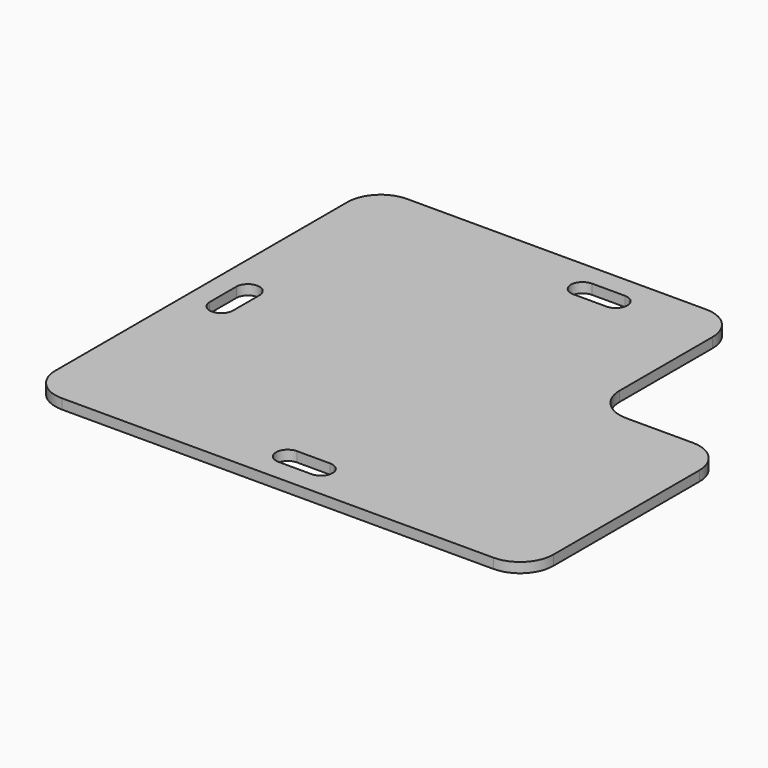
from build123d import *

# Parameters (mm, degrees)
F1_DEPTH = 3


with BuildPart() as f1:
    # F0 (on Top) → F1 (new body)
    with BuildSketch(Plane.XY):
        with BuildLine():
            Line((-55.810351, -65), (74.189649, -65))
            ThreePointArc((74.189649, -65), (81.260717, -62.071068), (84.189649, -55))
            Line((84.189649, -55), (84.189649, 0))
            ThreePointArc((84.189649, 0), (81.260717, 7.071068), (74.189649, 10))
            Line((74.189649, 10), (54.189649, 10))
            ThreePointArc((54.189649, 10), (47.118581, 12.928932), (44.189649, 20))
            Line((44.189649, 20), (44.189649, 55))
            ThreePointArc((44.189649, 55), (41.260717, 62.071068), (34.189649, 65))
            Line((34.189649, 65), (-55.810351, 65))
            ThreePointArc((-55.810351, 65), (-62.881419, 62.071068), (-65.810351, 55))
            Line((-65.810351, 55), (-65.810351, -55))
            ThreePointArc((-65.810351, -55), (-62.881419, -62.071068), (-55.810351, -65))
        make_face()
        with BuildLine():
            Line((14.189649, -58.5), (4.189649, -58.5))
            ThreePointArc((4.189649, -58.5), (0.689649, -55), (4.189649, -51.5))
            Line((4.189649, -51.5), (14.189649, -51.5))
            ThreePointArc((14.189649, -51.5), (17.689649, -55), (14.189649, -58.5))
        make_face(mode=Mode.SUBTRACT)
        with BuildLine():
            Line((-59.310351, -5), (-59.310351, 5))
            ThreePointArc((-59.310351, 5), (-55.810351, 8.5), (-52.310351, 5))
            Line((-52.310351, 5), (-52.310351, -5))
            ThreePointArc((-52.310351, -5), (-55.810351, -8.5), (-59.310351, -5))
        make_face(mode=Mode.SUBTRACT)
        with BuildLine():
            Line((15, 51.5), (5, 51.5))
            ThreePointArc((5, 51.5), (1.5, 55), (5, 58.5))
            Line((5, 58.5), (15, 58.5))
            ThreePointArc((15, 58.5), (18.5, 55), (15, 51.5))
        make_face(mode=Mode.SUBTRACT)
    extrude(amount=F1_DEPTH)


solid = f1.part
